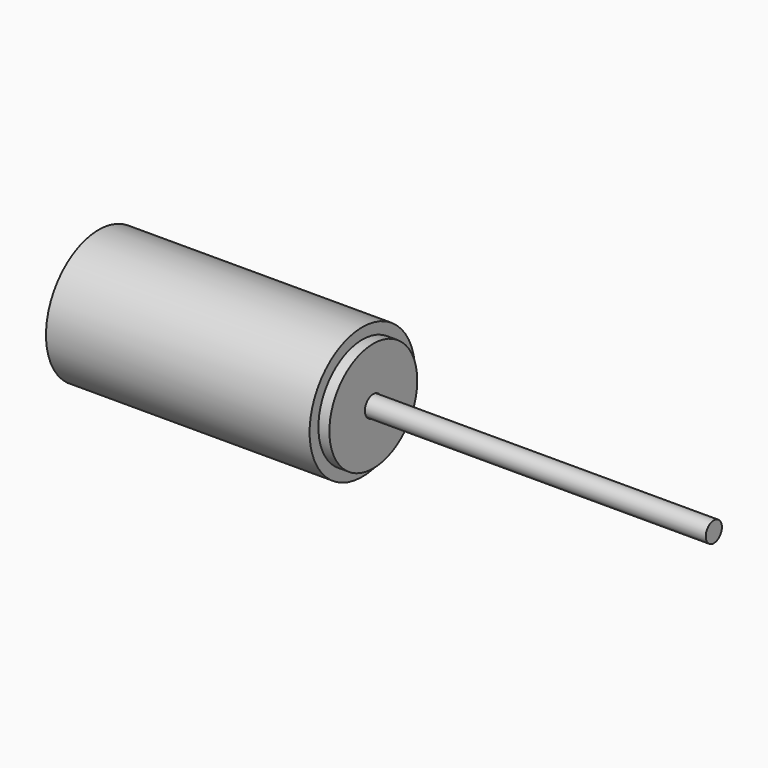
from build123d import *

# Parameters (mm, degrees)
F0_R     = 38.1
F1_DEPTH = 76.2
F2_T     = -6.35
F4_R     = 5.842
F5_DEPTH = 203.2
F6_R     = 31.75
F7_DEPTH = 6.35
F3_R     = 31.75
F8_DEPTH = 6.35
F9_D     = 12.7
F10_D    = 12.192


with BuildPart() as f1:
    # F0 (on Right) → F1 (new body, symmetric)
    with BuildSketch(Plane.YZ):
        Circle(F0_R)
    extrude(amount=F1_DEPTH, both=True)

    # F2
    f2_openings = [f1.faces().sort_by_distance(p)[0] for p in [
        (76.2, 0, 0),
    ]]
    offset(amount=F2_T, openings=f2_openings)


with BuildPart() as f5:
    # F4 (on face) → F5 (new body)
    with BuildSketch(Plane.YZ.offset(76.2)):
        Circle(F4_R)
    extrude(amount=F5_DEPTH)


with BuildPart() as f7:
    # F6 (on face) → F7 (new body)
    with BuildSketch(Plane.YZ.offset(76.2)):
        Circle(F6_R)
    extrude(amount=F7_DEPTH)

    # F10 (through all)
    with Locations(Plane(origin=(76.2, 0, 0), x_dir=(0, 1, 0), z_dir=(-1, 0, 0))):
        with Locations((0, 0)):
            Hole(F10_D / 2)


with BuildPart() as f8:
    # F3 (on face) → F8 (new body)
    with BuildSketch(Plane.YZ.offset(76.2)):
        Circle(F3_R)
    extrude(amount=-F8_DEPTH)

    # F9 (through all)
    with Locations(Plane.YZ.offset(76.2)):
        with Locations((0, 0)):
            Hole(F9_D / 2)


solid = Compound([f1.part, f5.part, f7.part, f8.part])
